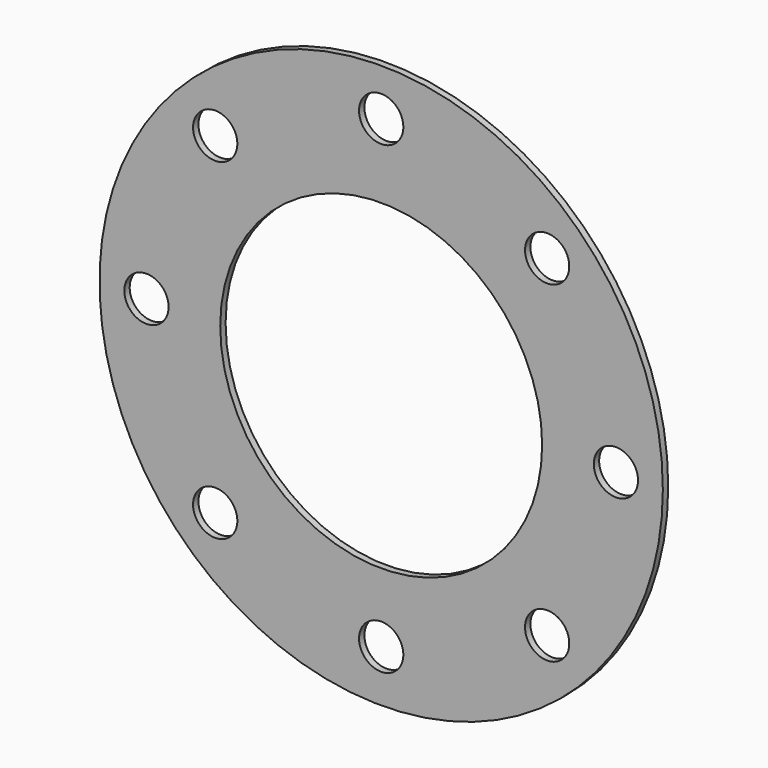
from build123d import *

# Parameters (mm, degrees)
F0_R     = 42
F0_R_2   = 3.3
F0_R_3   = 24
F1_DEPTH = 1
F2_D     = 6.6


with BuildPart() as f1:
    # F0 (on Front) → F1 (new body)
    with BuildSketch(Plane.XZ):
        Circle(F0_R)
        with Locations((-24.7487373415, -24.7487373415)):
            Circle(F0_R_2, mode=Mode.SUBTRACT)
        with Locations((0, -34.2780984938)):
            Circle(F0_R_2, mode=Mode.SUBTRACT)
        with Locations((24.7487373415, -24.7487373415)):
            Circle(F0_R_2, mode=Mode.SUBTRACT)
        with Locations((-35, 0)):
            Circle(F0_R_2, mode=Mode.SUBTRACT)
        with Locations((-24.7487373415, 24.7487373415)):
            Circle(F0_R_2, mode=Mode.SUBTRACT)
        Circle(F0_R_3, mode=Mode.SUBTRACT)
        with Locations((35, 0)):
            Circle(F0_R_2, mode=Mode.SUBTRACT)
        with Locations((0, 35)):
            Circle(F0_R_2, mode=Mode.SUBTRACT)
        with Locations((24.7487373415, 24.7487373415)):
            Circle(F0_R_2, mode=Mode.SUBTRACT)
        with Locations((0, 35)):
            Circle(F0_R_2)
        with Locations((-24.7487373415, 24.7487373415)):
            Circle(F0_R_2)
        with Locations((-24.7487373415, -24.7487373415)):
            Circle(F0_R_2)
        with Locations((-35, 0)):
            Circle(F0_R_2)
        with Locations((0, -34.2780984938)):
            Circle(F0_R_2)
        with Locations((24.7487373415, -24.7487373415)):
            Circle(F0_R_2)
        with Locations((35, 0)):
            Circle(F0_R_2)
        with Locations((24.7487373415, 24.7487373415)):
            Circle(F0_R_2)
    extrude(amount=F1_DEPTH)

    # F2 (through all)
    with Locations(Plane(origin=(0, 0, 0), x_dir=(1, 0, 0), z_dir=(0, 1, 0))):
        with Locations((24.7487373415, -24.7487373415), (35, 0), (24.7487373415, 24.7487373415), (0, 34.2780984938), (-24.7487373415, 24.7487373415), (-35, 0), (-24.7487373415, -24.7487373415), (0, -35)):
            Hole(F2_D / 2)


solid = f1.part
